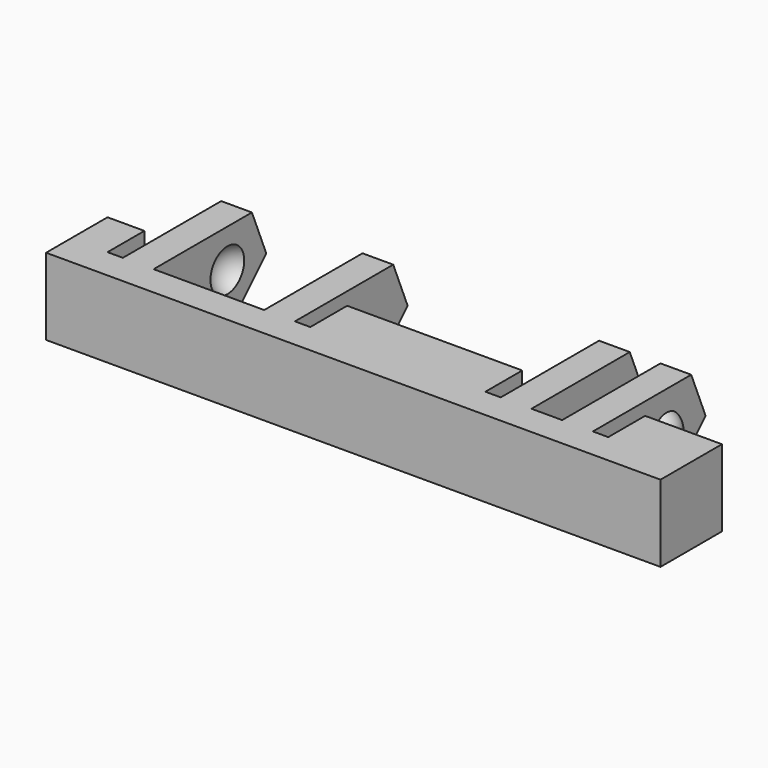
from build123d import *

# Parameters (mm, degrees)
BOX135_W               = 12
BOX135_H               = 44
BOX135_DEPTH           = 10
BOX137_W               = 4
BOX137_H               = 1
BOX137_DEPTH           = 7
BOX139_W               = 4
BOX139_H               = 1
BOX139_DEPTH           = 7
BOX133_W               = 4
BOX133_H               = 2
BOX133_DEPTH           = 7
BOX140_W               = 4
BOX140_H               = 1
BOX140_DEPTH           = 7
BOX136_W               = 4
BOX136_H               = 1
BOX136_DEPTH           = 7
BOX144_W               = 4
BOX144_H               = 7.2
BOX144_DEPTH           = 7
BOX142_W               = 13
BOX142_H               = 40
BOX142_DEPTH           = 10
BOX142_PLACEMENT_ANGLE = 45
BOX132_W               = 10
BOX132_H               = 2
BOX132_DEPTH           = 7
BOX134_W               = 10
BOX134_H               = 2
BOX134_DEPTH           = 7
BOX141_W               = 10
BOX141_H               = 2
BOX141_DEPTH           = 7
BOX143_W               = 10
BOX143_H               = 2
BOX143_DEPTH           = 7
BOX138_W               = 5
BOX138_H               = 40
BOX138_DEPTH           = 7
CHAMFER012_SIZE        = 4
CUT040_PLACEMENT_ANGLE = 180
CUT039_PLACEMENT_ANGLE = 90


with BuildPart() as cube119:
    # Box135 → Box135 (new body)
    with BuildSketch(Plane(origin=(-11, -2, -12), x_dir=(1, 0, 0), z_dir=(0, 0, 1))):
        with Locations((6, 22)):
            Rectangle(BOX135_W, BOX135_H)
    extrude(amount=BOX135_DEPTH)


with BuildPart() as cube121:
    # Box137 → Box137 (new body)
    with BuildSketch(Plane(origin=(-1, 12, 0), x_dir=(1, 0, 0), z_dir=(0, 0, 1))):
        with Locations((2, 0.5)):
            Rectangle(BOX137_W, BOX137_H)
    extrude(amount=BOX137_DEPTH)


with BuildPart() as cube123:
    # Box139 → Box139 (new body)
    with BuildSketch(Plane(origin=(-1, 36.6, 0), x_dir=(1, 0, 0), z_dir=(0, 0, 1))):
        with Locations((2, 0.5)):
            Rectangle(BOX139_W, BOX139_H)
    extrude(amount=BOX139_DEPTH)


with BuildPart() as cube117:
    # Box133 → Box133 (new body)
    with BuildSketch(Plane(origin=(-1, 8, 0), x_dir=(1, 0, 0), z_dir=(0, 0, 1))):
        with Locations((2, 1)):
            Rectangle(BOX133_W, BOX133_H)
    extrude(amount=BOX133_DEPTH)


with BuildPart() as cube124:
    # Box140 → Box140 (new body)
    with BuildSketch(Plane(origin=(-1, 24.4, 0), x_dir=(1, 0, 0), z_dir=(0, 0, 1))):
        with Locations((2, 0.5)):
            Rectangle(BOX140_W, BOX140_H)
    extrude(amount=BOX140_DEPTH)


with BuildPart() as cube120:
    # Box136 → Box136 (new body)
    with BuildSketch(Plane(origin=(-1, 5, 0), x_dir=(1, 0, 0), z_dir=(0, 0, 1))):
        with Locations((2, 0.5)):
            Rectangle(BOX136_W, BOX136_H)
    extrude(amount=BOX136_DEPTH)


with BuildPart() as fusion043:
    # Box144 → Box144 (new body)
    with BuildSketch(Plane(origin=(-1, 27.4, 0), x_dir=(1, 0, 0), z_dir=(0, 0, 1))):
        with Locations((2, 3.6)):
            Rectangle(BOX144_W, BOX144_H)
    extrude(amount=BOX144_DEPTH)

    # Fusion043: union Cube121, Cube123, Cube117, Cube124, Cube120
    add(cube121.part)
    add(cube123.part)
    add(cube117.part)
    add(cube124.part)
    add(cube120.part)


with BuildPart() as sphere048:
    # Sphere048 → Sphere048 (revolve)
    with BuildSketch(Plane(origin=(-3, 28, 2.5), x_dir=(1, 0, 0), z_dir=(0, -1, 0))):
        with BuildLine():
            ThreePointArc((0, -1.5), (1.5, 0), (0, 1.5))
            Line((0, 1.5), (0, -1.5))
        make_face()
    revolve(axis=Axis((-3, 28, 2.5), (0, 0, 1)))


with BuildPart() as fusion045:
    # Sphere050 → Sphere050 (revolve)
    with BuildSketch(Plane(origin=(-3, 34, 2.5), x_dir=(1, 0, 0), z_dir=(0, -1, 0))):
        with BuildLine():
            ThreePointArc((0, -1.5), (1.5, 0), (0, 1.5))
            Line((0, 1.5), (0, -1.5))
        make_face()
    revolve(axis=Axis((-3, 34, 2.5), (0, 0, 1)))

    # Fusion045: union Sphere048
    add(sphere048.part)


with BuildPart() as sphere047:
    # Sphere047 → Sphere047 (revolve)
    with BuildSketch(Plane(origin=(-3, 11.5, 2.5), x_dir=(1, 0, 0), z_dir=(0, -1, 0))):
        with BuildLine():
            ThreePointArc((0, -1.25), (1.25, 0), (0, 1.25))
            Line((0, 1.25), (0, -1.25))
        make_face()
    revolve(axis=Axis((-3, 11.5, 2.5), (0, 0, 1)))


with BuildPart() as cube126:
    # Box142 → Box142 (new body)
    with BuildSketch(Plane.XY):
        with Locations((6.5, 20)):
            Rectangle(BOX142_W, BOX142_H)
    extrude(amount=BOX142_DEPTH)


with BuildPart() as cube126_1:
    # Box142 placement: moved
    add(cube126.part.moved(Location((-10.19, 0, -1.19))).rotate(Axis((-10.19, 0, -1.19), (0, -1, 0)), BOX142_PLACEMENT_ANGLE))


with BuildPart() as cube116:
    # Box132 → Box132 (new body)
    with BuildSketch(Plane(origin=(-10, 6, 0), x_dir=(1, 0, 0), z_dir=(0, 0, 1))):
        with Locations((5, 1)):
            Rectangle(BOX132_W, BOX132_H)
    extrude(amount=BOX132_DEPTH)


with BuildPart() as cube118:
    # Box134 → Box134 (new body)
    with BuildSketch(Plane(origin=(-10, 10, 0), x_dir=(1, 0, 0), z_dir=(0, 0, 1))):
        with Locations((5, 1)):
            Rectangle(BOX134_W, BOX134_H)
    extrude(amount=BOX134_DEPTH)


with BuildPart() as cube125:
    # Box141 → Box141 (new body)
    with BuildSketch(Plane(origin=(-10, 25.4, 0), x_dir=(1, 0, 0), z_dir=(0, 0, 1))):
        with Locations((5, 1)):
            Rectangle(BOX141_W, BOX141_H)
    extrude(amount=BOX141_DEPTH)


with BuildPart() as cube127:
    # Box143 → Box143 (new body)
    with BuildSketch(Plane(origin=(-10, 34.6, 0), x_dir=(1, 0, 0), z_dir=(0, 0, 1))):
        with Locations((5, 1)):
            Rectangle(BOX143_W, BOX143_H)
    extrude(amount=BOX143_DEPTH)


with BuildPart() as cut037:
    # Box138 → Box138 (new body)
    with BuildSketch(Plane.XY):
        with Locations((2.5, 20)):
            Rectangle(BOX138_W, BOX138_H)
    extrude(amount=BOX138_DEPTH)

    # Fusion044: union Cube116, Cube118, Cube125, Cube127
    add(cube116.part)
    add(cube118.part)
    add(cube125.part)
    add(cube127.part)

    # Cut037: cut Cube126
    add(cube126_1.part, mode=Mode.SUBTRACT)


with BuildPart() as cut039:
    # Sphere049 → Sphere049 (revolve)
    with BuildSketch(Plane(origin=(-3, 6.5, 2.5), x_dir=(1, 0, 0), z_dir=(0, -1, 0))):
        with BuildLine():
            ThreePointArc((0, -1.25), (1.25, 0), (0, 1.25))
            Line((0, 1.25), (0, -1.25))
        make_face()
    revolve(axis=Axis((-3, 6.5, 2.5), (0, 0, 1)))

    # Fusion042: union Sphere047, Cut037
    add(sphere047.part)
    add(cut037.part)

    # Cut038: cut Fusion045
    add(fusion045.part, mode=Mode.SUBTRACT)

    # Chamfer012
    chamfer012_edges = [cut039.edges().sort_by_distance(p)[0] for p in [
        (-9, 7, 0),
        (-9, 11, 0),
        (-9, 35.6, 0),
        (-9, 26.4, 0),
    ]]
    chamfer(chamfer012_edges, length=CHAMFER012_SIZE)

    # Cut040: cut Fusion043
    add(fusion043.part, mode=Mode.SUBTRACT)


with BuildPart() as cut039_1:
    # Cut040 placement: moved
    add(cut039.part.moved(Location((-5, 40, 3))).rotate(Axis((-5, 40, 3), (1, 0, 0)), CUT040_PLACEMENT_ANGLE))

    # Cut039: cut Cube119
    add(cube119.part, mode=Mode.SUBTRACT)


with BuildPart() as cut039_2:
    # Cut039 placement: moved
    add(cut039_1.part.moved(Location((0, 40, 0))).rotate(Axis((0, 40, 0), (0, 0, -1)), CUT039_PLACEMENT_ANGLE))


solid = cut039_2.part
